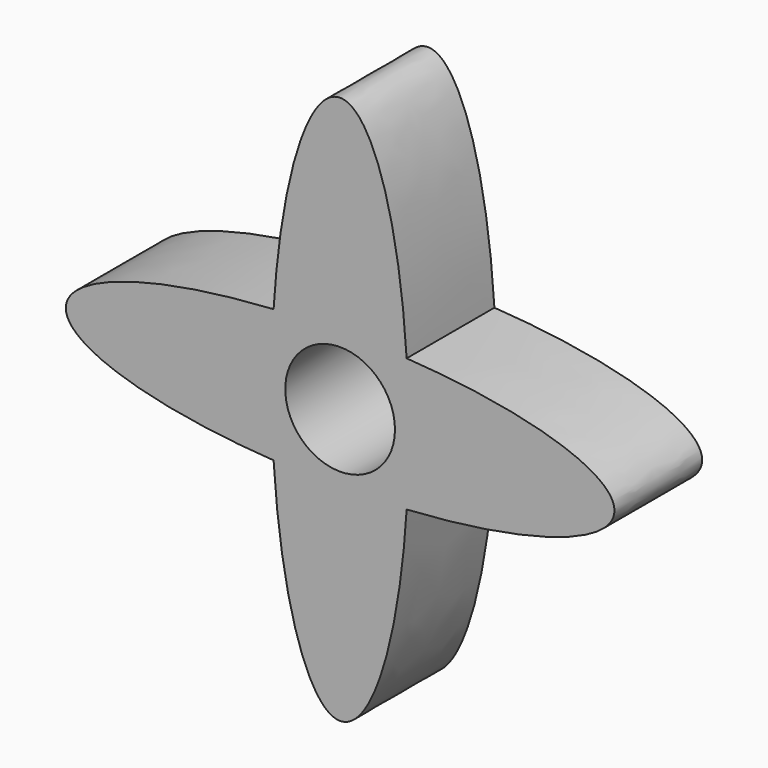
from build123d import *

# Parameters (mm, degrees)
F1_DEPTH = 20
F2_R     = 10
F3_DEPTH = 20.0010001


with BuildPart() as f1:
    # F0 (on Front) → F1 (new body)
    with BuildSketch(Plane.XZ):
        with BuildLine():
            add(Edge.make_bspline(
                [(12.1267812518, 12.1267812518), (9.7597050801, 50), (0, 50)],
                knots=[4.9573676435, 4.9573676435, 4.9573676435, 6.2831853072, 6.2831853072, 6.2831853072], degree=2, weights=[1, 0.788205438, 1]))
            add(Edge.make_bspline(
                [(0, 50), (-9.7597050801, 50), (-12.1267812518, 12.1267812518)],
                knots=[0, 0, 0, 1.3258176637, 1.3258176637, 1.3258176637], degree=2, weights=[1, 0.788205438, 1]))
            add(Edge.make_bspline(
                [(12.1267812518, 12.1267812518), (0, 12.8847050801), (-12.1267812518, 12.1267812518)],
                knots=[1.3258176637, 1.3258176637, 1.3258176637, 1.8157749899, 1.8157749899, 1.8157749899], degree=2, weights=[1, 0.9701425001, 1]))
        make_face()
        with BuildLine():
            add(Edge.make_bspline(
                [(12.1267812518, 12.1267812518), (0, 12.8847050801), (-12.1267812518, 12.1267812518)],
                knots=[1.3258176637, 1.3258176637, 1.3258176637, 1.8157749899, 1.8157749899, 1.8157749899], degree=2, weights=[1, 0.9701425001, 1]))
            add(Edge.make_bspline(
                [(-12.1267812518, 12.1267812518), (-12.8847050801, 0), (-12.1267812518, -12.1267812518)],
                knots=[1.3258176637, 1.3258176637, 1.3258176637, 1.8157749899, 1.8157749899, 1.8157749899], degree=2, weights=[1, 0.9701425001, 1]))
            add(Edge.make_bspline(
                [(-12.1267812518, -12.1267812518), (0, -12.8847050801), (12.1267812518, -12.1267812518)],
                knots=[4.4674103173, 4.4674103173, 4.4674103173, 4.9573676435, 4.9573676435, 4.9573676435], degree=2, weights=[1, 0.9701425001, 1]))
            add(Edge.make_bspline(
                [(12.1267812518, -12.1267812518), (12.8847050801, 0), (12.1267812518, 12.1267812518)],
                knots=[4.4674103173, 4.4674103173, 4.4674103173, 4.9573676435, 4.9573676435, 4.9573676435], degree=2, weights=[1, 0.9701425001, 1]))
        make_face()
        with BuildLine():
            add(Edge.make_bspline(
                [(-12.1267812518, 12.1267812518), (-12.8847050801, 0), (-12.1267812518, -12.1267812518)],
                knots=[1.3258176637, 1.3258176637, 1.3258176637, 1.8157749899, 1.8157749899, 1.8157749899], degree=2, weights=[1, 0.9701425001, 1]))
            add(Edge.make_bspline(
                [(-12.1267812518, 12.1267812518), (-50, 9.7597050801), (-50, 0), (-50, -9.7597050801), (-12.1267812518, -12.1267812518)],
                knots=[1.8157749899, 1.8157749899, 1.8157749899, 3.1415926536, 3.1415926536, 4.4674103173, 4.4674103173, 4.4674103173], degree=2, weights=[1, 0.788205438, 1, 0.788205438, 1]))
        make_face()
        with BuildLine():
            add(Edge.make_bspline(
                [(50, 0), (50, 9.7597050801), (12.1267812518, 12.1267812518)],
                knots=[0, 0, 0, 1.3258176637, 1.3258176637, 1.3258176637], degree=2, weights=[1, 0.788205438, 1]))
            add(Edge.make_bspline(
                [(12.1267812518, -12.1267812518), (12.8847050801, 0), (12.1267812518, 12.1267812518)],
                knots=[4.4674103173, 4.4674103173, 4.4674103173, 4.9573676435, 4.9573676435, 4.9573676435], degree=2, weights=[1, 0.9701425001, 1]))
            add(Edge.make_bspline(
                [(12.1267812518, -12.1267812518), (50, -9.7597050801), (50, 0)],
                knots=[4.9573676435, 4.9573676435, 4.9573676435, 6.2831853072, 6.2831853072, 6.2831853072], degree=2, weights=[1, 0.788205438, 1]))
        make_face()
        with BuildLine():
            add(Edge.make_bspline(
                [(-12.1267812518, -12.1267812518), (0, -12.8847050801), (12.1267812518, -12.1267812518)],
                knots=[4.4674103173, 4.4674103173, 4.4674103173, 4.9573676435, 4.9573676435, 4.9573676435], degree=2, weights=[1, 0.9701425001, 1]))
            add(Edge.make_bspline(
                [(-12.1267812518, -12.1267812518), (-9.7597050801, -50), (0, -50), (9.7597050801, -50), (12.1267812518, -12.1267812518)],
                knots=[1.8157749899, 1.8157749899, 1.8157749899, 3.1415926536, 3.1415926536, 4.4674103173, 4.4674103173, 4.4674103173], degree=2, weights=[1, 0.788205438, 1, 0.788205438, 1]))
        make_face()
    extrude(amount=F1_DEPTH)

    # F2 (on face) → F3 (cut, through all)
    with BuildSketch(Plane.XZ.offset(20)):
        Circle(F2_R)
    extrude(amount=-F3_DEPTH, mode=Mode.SUBTRACT)


solid = f1.part
